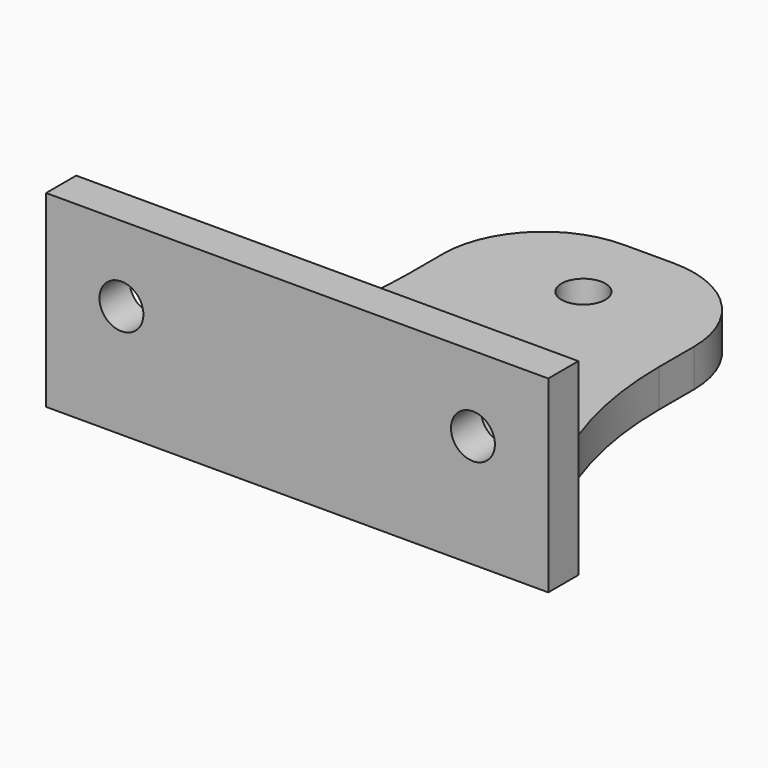
from build123d import *

# Parameters (mm, degrees)
F0_W     = 3.5857191042
F0_H     = 3
F0_H_2   = 17
F1_DEPTH = 15
F0_R     = 1.75
F2_DEPTH = 3
F4_DEPTH = 25
F5_R     = 1.75
F6_DEPTH = 25


with BuildPart() as f1:
    # F0 (on Top) → F1 (new body)
    with BuildSketch(Plane.XY):
        Polygon((-1.7928595521, -14.5), (-20, -14.5), (-20, -17.5), (-10, -17.5), (-1.7928595521, -17.5), align=None)
        with Locations((0, -16)):
            Rectangle(F0_W, F0_H)
        Polygon((20, -17.5), (20, -14.5), (1.7928595521, -14.5), (1.7928595521, -17.5), (10, -17.5), align=None)
        with Locations((0, -6)):
            Rectangle(F0_W, F0_H_2)
    extrude(amount=F1_DEPTH)

    # F0 (on Top) → F2 (join)
    with BuildSketch(Plane.XY):
        with BuildLine():
            ThreePointArc((10, 9.5), (7.6568542495, 15.1568542495), (2, 17.5))
            Line((2, 17.5), (-2, 17.5))
            ThreePointArc((-2, 17.5), (-7.6568542495, 15.1568542495), (-10, 9.5))
            Line((-10, 9.5), (-10, 6.0498948877))
            ThreePointArc((-10, 6.0498948877), (-11.4540586287, -3.1766554549), (-15.6752820816, -11.508809455))
            Line((-15.6752820816, -11.508809455), (-20, -14.5))
            Line((-20, -14.5), (-1.7928595521, -14.5))
            Line((-1.7928595521, -14.5), (-1.7928595521, 2.5))
            Line((-1.7928595521, 2.5), (1.7928595521, 2.5))
            Line((1.7928595521, 2.5), (1.7928595521, -14.5))
            Line((1.7928595521, -14.5), (20, -14.5))
            Line((20, -14.5), (15.6752820816, -11.508809455))
            ThreePointArc((15.6752820816, -11.508809455), (11.4540586287, -3.1766554549), (10, 6.0498948877))
            Line((10, 6.0498948877), (10, 9.5))
        make_face()
        with Locations((0, 11)):
            Circle(F0_R, mode=Mode.SUBTRACT)
    extrude(amount=F2_DEPTH)

    # F3 (on face) → F4 (cut)
    with BuildSketch(Plane.YZ.offset(1.7928595521)):
        Polygon((2.5, 15), (-14.5, 15), (2.5, 3), align=None)
    extrude(amount=-F4_DEPTH, mode=Mode.SUBTRACT)

    # F5 (on face) → F6 (cut)
    with BuildSketch(Plane.XZ.offset(17.5)):
        with Locations((14, 9)):
            Circle(F5_R)
        with Locations((-14, 9)):
            Circle(F5_R)
    extrude(amount=-F6_DEPTH, mode=Mode.SUBTRACT)


solid = f1.part
